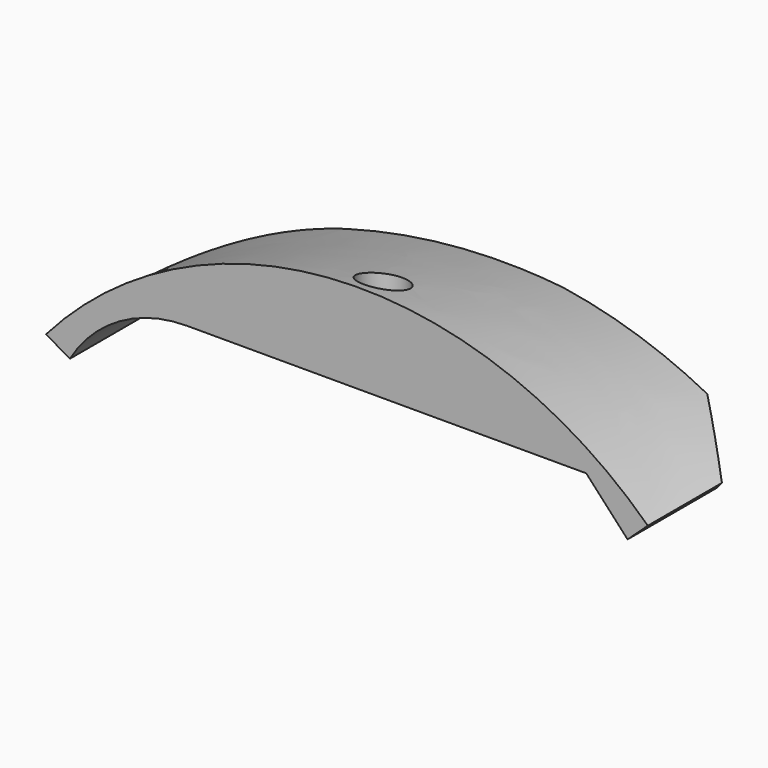
from build123d import *

# Parameters (mm, degrees)
POCKET010_DEPTH  = 10.5
HOLE_D           = 3.9
HOLE_DEPTH       = 25
HOLE_CBORE_D     = 6.7
HOLE_CBORE_DEPTH = 14
HOLE_TIPS_R      = 1.95


with BuildPart() as part:
    # Sketch022 → AdditiveLoft001 section 0
    with BuildSketch(Plane.XZ.offset(26)):
        with BuildLine():
            Line((-24.5, 0), (33.5, 0))
            Line((33.5, 0), (39.5, -6.5))
            Line((39.5, -6.5), (42.439214, -3.78688))
            ThreePointArc((42.439214, -3.78688), (-2.100464, 12.941774), (-44.952563, -7.730146))
            Line((-44.952563, -7.730146), (-41.5, -9.75))
            ThreePointArc((-24.5, 0), (-34.298756, -2.610502), (-41.5, -9.75))
        make_face()
    # Sketch023 → AdditiveLoft001 section 1
    with BuildSketch(Plane.XZ):
        with BuildLine():
            Line((-24.5, 0), (33.5, 0))
            Line((33.5, 0), (39.5, -6.5))
            Line((39.5, -6.5), (42.439214, -3.78688))
            ThreePointArc((42.439214, -3.78688), (-1.784428, 5.937707), (-44.952563, -7.730146))
            Line((-44.952563, -7.730146), (-41.5, -9.75))
            ThreePointArc((-24.5, 0), (-34.298756, -2.610502), (-41.5, -9.75))
        make_face()
    loft()

    # Sketch024 → Pocket010 (cut, symmetric)
    with BuildSketch(Plane.XY):
        with BuildLine():
            Line((-22, 0), (9.990911, -0.825847))
            Line((9.990911, -0.825847), (33.005764, -3.416537))
            Line((33.005764, -3.416537), (43.190086, -13.274679))
            Line((43.190086, -13.274679), (43.190086, 17.224566))
            Line((43.190086, 17.224566), (-48.844296, 17.224566))
            Line((-48.844296, 17.224566), (-48.844296, -33.398815))
            Line((-48.844296, -33.398815), (-45, -33.398815))
            Line((-45, -33.398815), (-45, -26))
            add(Edge.make_bspline(
                [(-45, -26), (-42.180007, 0.520948), (-22, 0)],
                knots=[-21.613822, -21.613822, -21.613822, 11.787032, 11.787032, 11.787032], degree=2))
        make_face()
    extrude(amount=POCKET010_DEPTH, both=True, mode=Mode.SUBTRACT)

    # Hole
    with Locations(Plane.XY.offset(17)):
        with Locations((0, -21)):
            CounterBoreHole(HOLE_D / 2, HOLE_CBORE_D / 2, HOLE_CBORE_DEPTH, depth=HOLE_DEPTH)

    # Hole tips → Hole tip 1 section 0
    with BuildSketch(Plane.XY.offset(-8), mode=Mode.PRIVATE) as hole_tip_1_s0:
        with Locations((0, -21)):
            Circle(HOLE_TIPS_R)
    loft([hole_tip_1_s0.sketch, Vertex(0, -21, -9.171678)], mode=Mode.SUBTRACT)


solid = part.part
